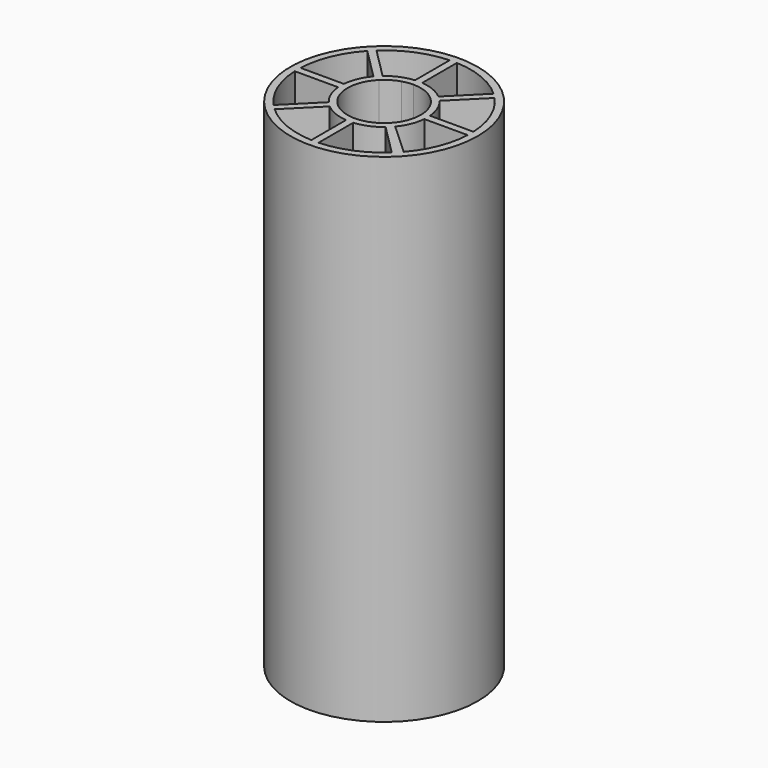
from build123d import *

# Parameters (mm, degrees)
F0_R     = 26
F1_DEPTH = 138


with BuildPart() as f1:
    # F0 (on Top) → F1 (new body)
    with BuildSketch(Plane.XY):
        Circle(F0_R)
        with BuildLine():
            ThreePointArc((16.704727, -17.232298), (16.478129, -17.449105), (16.248718, -17.662932))
            ThreePointArc((16.248718, -17.662932), (9.184402, -22.173109), (1, -23.979158))
            ThreePointArc((1, -23.979158), (0, -24), (-1, -23.979158))
            ThreePointArc((-1, -23.979158), (-9.184402, -22.173109), (-16.248718, -17.662932))
            ThreePointArc((-16.248718, -17.662932), (-16.970563, -16.970563), (-17.662932, -16.248718))
            ThreePointArc((-17.662932, -16.248718), (-22.173109, -9.184402), (-23.979158, -1))
            ThreePointArc((-23.979158, -1), (-24, 0), (-23.979158, 1))
            ThreePointArc((-23.979158, 1), (-22.173109, 9.184402), (-17.662932, 16.248718))
            ThreePointArc((-17.662932, 16.248718), (-16.970563, 16.970563), (-16.248718, 17.662932))
            ThreePointArc((-16.248718, 17.662932), (-9.184402, 22.173109), (-1, 23.979158))
            ThreePointArc((-1, 23.979158), (0, 24), (1, 23.979158))
            ThreePointArc((1, 23.979158), (9.184402, 22.173109), (16.248718, 17.662932))
            ThreePointArc((16.248718, 17.662932), (16.970563, 16.970563), (17.662932, 16.248718))
            ThreePointArc((17.662932, 16.248718), (22.173109, 9.184402), (23.979158, 1))
            ThreePointArc((23.979158, 1), (23.994789, 0.500109), (24, 0))
            ThreePointArc((24, 0), (23.994789, -0.500109), (23.979158, -1))
            ThreePointArc((23.979158, -1), (22.291296, -8.893714), (18.081746, -15.781332))
            ThreePointArc((18.081746, -15.781332), (17.40836, -16.521168), (16.704727, -17.232298))
        make_face(mode=Mode.SUBTRACT)
        with BuildLine():
            ThreePointArc((9.215691, -7.685769), (8.514268, -8.456195), (7.74866, -9.162874))
            Line((7.74866, -9.162874), (16.248718, -17.662932))
            ThreePointArc((16.248718, -17.662932), (16.478129, -17.449105), (16.704727, -17.232298))
            ThreePointArc((16.704727, -17.232298), (17.40836, -16.521168), (18.081746, -15.781332))
            Line((18.081746, -15.781332), (9.215691, -7.685769))
        make_face()
        with BuildLine():
            Line((-16.248718, -17.662932), (-7.74866, -9.162874))
            ThreePointArc((-7.74866, -9.162874), (-8.485281, -8.485281), (-9.162874, -7.74866))
            Line((-9.162874, -7.74866), (-17.662932, -16.248718))
            ThreePointArc((-17.662932, -16.248718), (-16.970563, -16.970563), (-16.248718, -17.662932))
        make_face()
        with BuildLine():
            ThreePointArc((1, -11.958261), (4.592201, -11.086554), (7.74866, -9.162874))
            ThreePointArc((7.74866, -9.162874), (8.514268, -8.456195), (9.215691, -7.685769))
            ThreePointArc((9.215691, -7.685769), (11.102204, -4.554236), (11.958261, -1))
            ThreePointArc((11.958261, -1), (11.989561, -0.500435), (12, 0))
            ThreePointArc((12, 0), (11.989561, 0.500435), (11.958261, 1))
            ThreePointArc((11.958261, 1), (11.086554, 4.592201), (9.162874, 7.74866))
            ThreePointArc((9.162874, 7.74866), (8.485281, 8.485281), (7.74866, 9.162874))
            ThreePointArc((7.74866, 9.162874), (4.592201, 11.086554), (1, 11.958261))
            ThreePointArc((1, 11.958261), (0, 12), (-1, 11.958261))
            ThreePointArc((-1, 11.958261), (-4.592201, 11.086554), (-7.74866, 9.162874))
            ThreePointArc((-7.74866, 9.162874), (-8.485281, 8.485281), (-9.162874, 7.74866))
            ThreePointArc((-9.162874, 7.74866), (-11.086554, 4.592201), (-11.958261, 1))
            ThreePointArc((-11.958261, 1), (-12, 0), (-11.958261, -1))
            ThreePointArc((-11.958261, -1), (-11.086554, -4.592201), (-9.162874, -7.74866))
            ThreePointArc((-9.162874, -7.74866), (-8.485281, -8.485281), (-7.74866, -9.162874))
            ThreePointArc((-7.74866, -9.162874), (-4.592201, -11.086554), (-1, -11.958261))
            ThreePointArc((-1, -11.958261), (0, -12), (1, -11.958261))
        make_face()
        with BuildLine():
            ThreePointArc((-7.177134, -7.177134), (-10.15, 0), (-7.177134, 7.177134))
            ThreePointArc((-7.177134, 7.177134), (-5.22891, 8.699483), (-2.970415, 9.705624))
            ThreePointArc((-2.970415, 9.705624), (-1.501735, 10.038291), (0, 10.15))
            ThreePointArc((0, 10.15), (9.377377, -3.884237), (-7.177134, -7.177134))
        make_face(mode=Mode.SUBTRACT)
        with BuildLine():
            Line((1, -23.979158), (1, -11.958261))
            ThreePointArc((1, -11.958261), (0, -12), (-1, -11.958261))
            Line((-1, -11.958261), (-1, -23.979158))
            ThreePointArc((-1, -23.979158), (0, -24), (1, -23.979158))
        make_face()
        with BuildLine():
            ThreePointArc((9.215691, -7.685769), (8.514268, -8.456195), (7.74866, -9.162874))
            Line((7.74866, -9.162874), (16.248718, -17.662932))
            ThreePointArc((16.248718, -17.662932), (16.478129, -17.449105), (16.704727, -17.232298))
            ThreePointArc((16.704727, -17.232298), (17.40836, -16.521168), (18.081746, -15.781332))
            Line((18.081746, -15.781332), (9.215691, -7.685769))
        make_face()
        with BuildLine():
            ThreePointArc((12, 0), (11.989561, -0.500435), (11.958261, -1))
            Line((11.958261, -1), (23.979158, -1))
            ThreePointArc((23.979158, -1), (23.994789, -0.500109), (24, 0))
            ThreePointArc((24, 0), (23.994789, 0.500109), (23.979158, 1))
            Line((23.979158, 1), (11.958261, 1))
            ThreePointArc((11.958261, 1), (11.989561, 0.500435), (12, 0))
        make_face()
        with BuildLine():
            ThreePointArc((7.74866, 9.162874), (8.485281, 8.485281), (9.162874, 7.74866))
            Line((9.162874, 7.74866), (17.662932, 16.248718))
            ThreePointArc((17.662932, 16.248718), (16.970563, 16.970563), (16.248718, 17.662932))
            Line((16.248718, 17.662932), (7.74866, 9.162874))
        make_face()
        with BuildLine():
            ThreePointArc((-1, 11.958261), (0, 12), (1, 11.958261))
            Line((1, 11.958261), (1, 23.979158))
            ThreePointArc((1, 23.979158), (0, 24), (-1, 23.979158))
            Line((-1, 23.979158), (-1, 11.958261))
        make_face()
        with BuildLine():
            Line((-17.662932, 16.248718), (-9.162874, 7.74866))
            ThreePointArc((-9.162874, 7.74866), (-8.485281, 8.485281), (-7.74866, 9.162874))
            Line((-7.74866, 9.162874), (-16.248718, 17.662932))
            ThreePointArc((-16.248718, 17.662932), (-16.970563, 16.970563), (-17.662932, 16.248718))
        make_face()
        with BuildLine():
            Line((-23.979158, -1), (-11.958261, -1))
            ThreePointArc((-11.958261, -1), (-12, 0), (-11.958261, 1))
            Line((-11.958261, 1), (-23.979158, 1))
            ThreePointArc((-23.979158, 1), (-24, 0), (-23.979158, -1))
        make_face()
    extrude(amount=F1_DEPTH)


solid = f1.part
